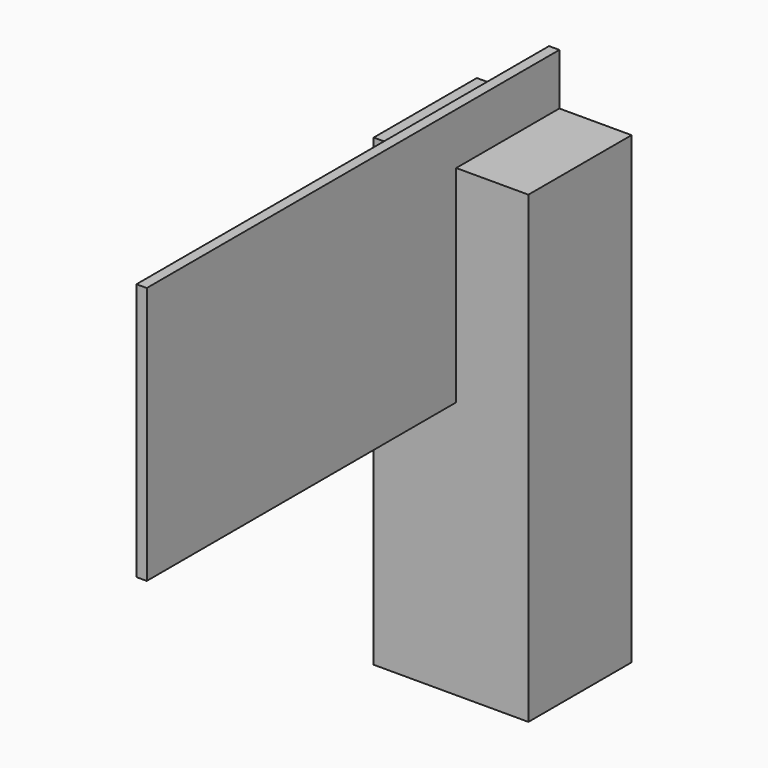
from build123d import *

# Parameters (mm, degrees)
F1_DEPTH = 25
F2_W     = 2
F2_H     = 50
F3_DEPTH = 100


with BuildPart() as f1:
    # F0 (on Front) → F1 (new body)
    with BuildSketch(Plane.XZ):
        Polygon((0, 90), (0, 0), (30, 0), (30, 90), (16, 90), (16, 50), (14, 50), (14, 90), align=None)
    extrude(amount=F1_DEPTH)


with BuildPart() as f3:
    # F2 (on Front) → F3 (new body)
    with BuildSketch(Plane.XZ):
        with Locations((15, 75)):
            Rectangle(F2_W, F2_H)
    extrude(amount=F3_DEPTH)


solid = Compound([f1.part, f3.part])
